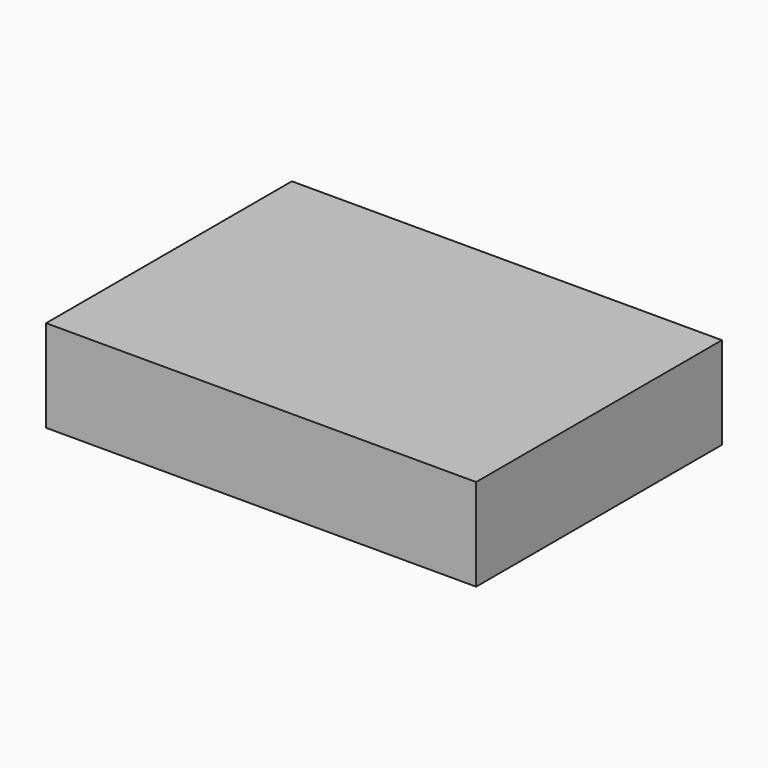
from build123d import *

# Parameters (mm, degrees)
BOX_W     = 70
BOX_H     = 50
BOX_DEPTH = 15


with BuildPart() as part:
    # Box → Box (new body)
    with BuildSketch(Plane.XY):
        with Locations((35, 25)):
            Rectangle(BOX_W, BOX_H)
    extrude(amount=BOX_DEPTH)


solid = part.part
